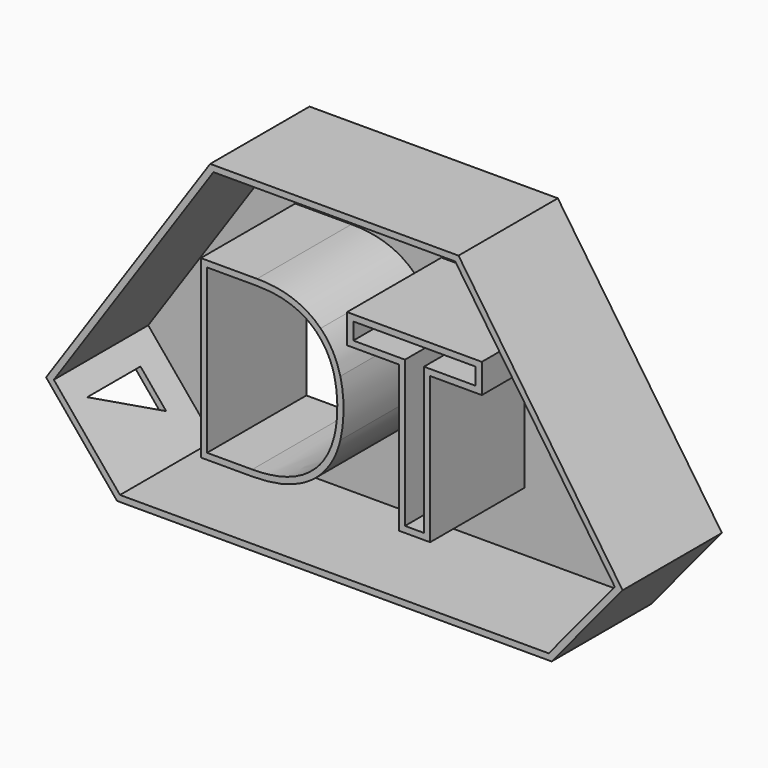
from build123d import *

# Parameters (mm, degrees)
F1_DEPTH = 50.8
F2_T     = -2.54
F4_DEPTH = 127


with BuildPart() as f1:
    # F0 (on Front) → F1 (new body)
    with BuildSketch(Plane.XZ):
        with BuildLine():
            Line((0, 24.0981667627), (0, 83.8833312971))
            Line((0, 83.8833312971), (-50.8, 83.8833312971))
            Line((-50.8, 83.8833312971), (-117.9412371776, -14.8265398925))
            Line((-117.9412371776, -14.8265398925), (-88.9, -49.9151258861))
            Line((-88.9, -49.9151258861), (0, -49.9151258861))
            Line((0, -49.9151258861), (0, 2.2995650193))
            add(Edge.make_bspline(
                [(0, 2.2995650193), (-2.0882154613, -6.3281467434), (-7.7552267394, -11.8520982905)],
                knots=[0.3684862018, 0.3684862018, 0.3684862018, 1, 1, 1], degree=2))
            add(Edge.make_bspline(
                [(-7.7552267394, -11.8520982905), (-16.7289202582, -20.599257201), (-33.5801720939, -20.599257201)],
                knots=[0, 0, 0, 1, 1, 1], degree=2))
            Line((-33.5801720939, -20.599257201), (-52.0829343004, -20.599257201))
            Line((-52.0829343004, -20.599257201), (-52.0829343004, 46.177299293))
            Line((-52.0829343004, 46.177299293), (-31.6217438667, 46.177299293))
            add(Edge.make_bspline(
                [(-31.6217438667, 46.177299293), (-16.042008865, 46.177299293), (-7.4117710428, 37.5470614708)],
                knots=[0, 0, 0, 1, 1, 1], degree=2))
            add(Edge.make_bspline(
                [(-7.4117710428, 37.5470614708), (-2.0243187646, 32.1596091927), (0, 24.0981667627)],
                knots=[0, 0, 0, 0.6242530495, 0.6242530495, 0.6242530495], degree=2))
        make_face()
        with BuildLine():
            Line((50.8, 83.8833312971), (0, 83.8833312971))
            Line((0, 83.8833312971), (0, 24.0981667627))
            add(Edge.make_bspline(
                [(0, 24.0981667627), (1.2184667794, 19.2458678233), (1.2184667794, 13.4247794631)],
                knots=[0.6242530495, 0.6242530495, 0.6242530495, 1, 1, 1], degree=2))
            add(Edge.make_bspline(
                [(1.2184667794, 13.4247794631), (1.2184667794, 7.33380615), (0, 2.2995650193)],
                knots=[0, 0, 0, 0.3684862018, 0.3684862018, 0.3684862018], degree=2))
            Line((0, 2.2995650193), (0, -49.9151258861))
            Line((0, -49.9151258861), (88.9, -49.9151258861))
            Line((88.9, -49.9151258861), (117.9412371776, -14.8265398925))
            Line((117.9412371776, -14.8265398925), (50.8, 83.8833312971))
        make_face()
        Polygon((36.6601716378, 39.2789550897), (36.6601716378, -20.599257201), (28.899534409, -20.599257201), (28.899534409, 39.2789550897), (7.7514325822, 39.2789550897), (7.7514325822, 46.177299293), (57.8082734646, 46.177299293), (57.8082734646, 39.2789550897), align=None, mode=Mode.SUBTRACT)
    extrude(amount=F1_DEPTH)

    # F2
    f2_openings = [f1.faces().sort_by_distance(p)[0] for p in [
        (3.083157, -50.8, 8.887949),
    ]]
    offset(amount=F2_T, openings=f2_openings, kind=Kind.INTERSECTION)

    # F3 (on face) → F4 (cut)
    with BuildSketch(Plane(origin=(-75.320136066, 0, -62.3390733426), x_dir=(0, 1, 0), z_dir=(0.7703683597, 0, 0.6375990828))):
        Polygon((-14.5749151707, 51.7074279487), (-41.8112725019, 51.7074279487), (-14.5749151707, 35.2508611977), align=None)
    extrude(amount=-F4_DEPTH, mode=Mode.SUBTRACT)


solid = f1.part
